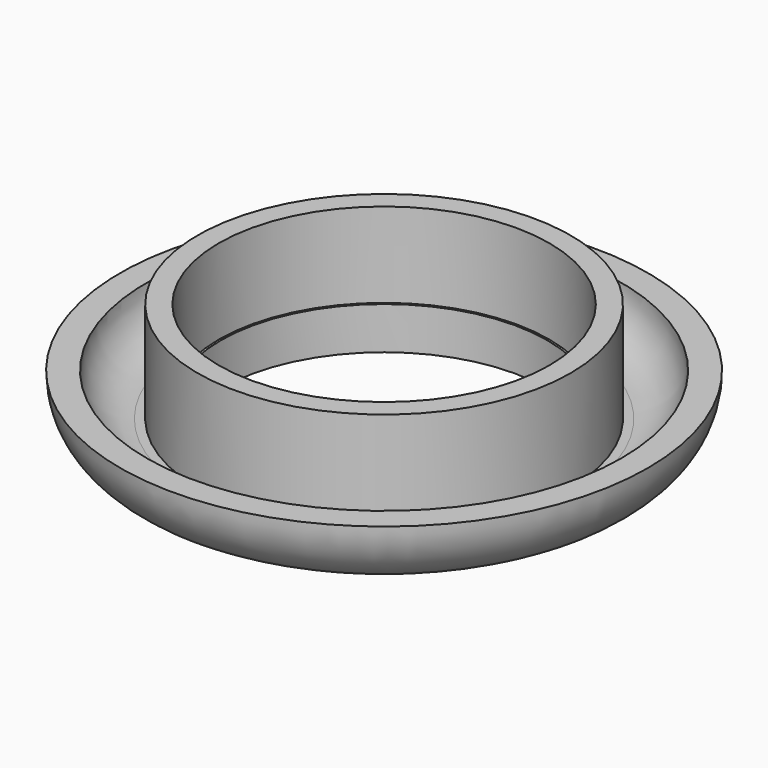
from build123d import *


with BuildPart() as f1:
    # F0 (on Front) → F1 (revolve)
    with BuildSketch(Plane.XZ):
        with BuildLine():
            Line((11.176, 7.62), (9.906, 7.62))
            Line((9.906, 7.62), (9.906, 2.54))
            Line((9.906, 2.54), (9.779, 2.54))
            Line((9.779, 2.54), (9.779, 0))
            Line((9.779, 0), (11.684, 0))
            ThreePointArc((11.684, 0), (14.602583, 1.208917), (15.8115, 4.1275))
            Line((15.8115, 4.1275), (14.224, 4.1275))
            ThreePointArc((14.224, 4.1275), (13.480051, 2.331449), (11.684, 1.5875))
            Line((11.684, 1.5875), (11.176, 1.5875))
            Line((11.176, 1.5875), (11.176, 7.62))
        make_face()
    revolve(axis=Axis((0, 0, 7.01159), (0, 0, -1)))


solid = f1.part
